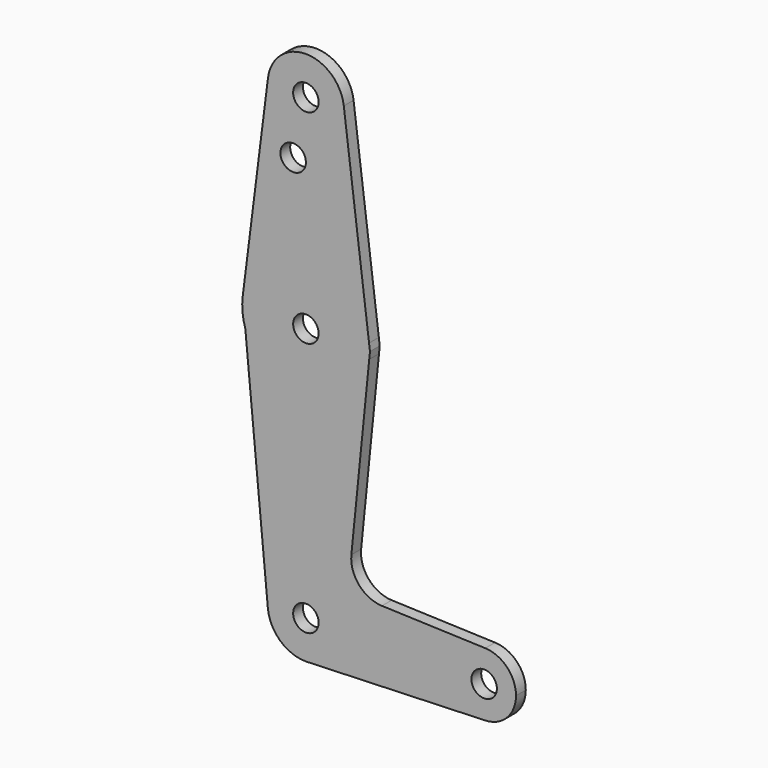
from build123d import *

# Parameters (mm, degrees)
F0_R     = 3.175
F1_DEPTH = 3.048
F2_DEPTH = 3.048


with BuildPart() as f1:
    # F0 (on Front) → F1 (new body)
    with BuildSketch(Plane.XZ):
        with BuildLine():
            ThreePointArc((15.7954255625, 61.9124999847), (15.8550939102, 62.7052534382), (15.875, 63.5))
            ThreePointArc((15.875, 63.5), (15.8438414982, 64.4941386113), (15.7504883051, 65.4843747508))
            ThreePointArc((15.7504883051, 65.4843747508), (1.256e-07, 79.375), (-15.7504882737, 65.484375))
            Line((-15.7504882737, 65.484375), (-15.1007031189, 58.6026139305))
            ThreePointArc((-15.1007031189, 58.6026139305), (1.6910045066, 47.7153198082), (15.7954255625, 61.9124999847))
        make_face()
        with Locations((0, 63.5)):
            Circle(F0_R, mode=Mode.SUBTRACT)
        with BuildLine():
            ThreePointArc((15.7504883051, 65.4843747508), (15.8438414982, 64.4941386113), (15.875, 63.5))
            ThreePointArc((15.875, 63.5), (15.8550939102, 62.7052534382), (15.7954255625, 61.9124999847))
            Line((15.7954255625, 61.9124999847), (15.9751747256, 63.7009815757))
            Line((15.9751747256, 63.7009815757), (15.7504883051, 65.4843747508))
        make_face()
        with BuildLine():
            ThreePointArc((-15.7504882737, 65.484375), (1.256e-07, 79.375), (15.7504883051, 65.4843747508))
            Line((15.7504883051, 65.4843747508), (9.4502929642, 115.490625))
            ThreePointArc((9.4502929642, 115.490625), (9.5063048942, 114.896483242), (9.525, 114.3))
            ThreePointArc((9.525, 114.3), (-0.596483242, 104.7936951058), (-9.4502929642, 115.490625))
            Line((-9.4502929642, 115.490625), (-15.7504882737, 65.484375))
        make_face()
        with Locations((-3.175, 100.0252)):
            Circle(F0_R, mode=Mode.SUBTRACT)
        with BuildLine():
            Line((11.3408358685, 17.5898921545), (15.7954255625, 61.9124999847))
            ThreePointArc((15.7954255625, 61.9124999847), (1.6910045066, 47.7153198082), (-15.1007031189, 58.6026139305))
            Line((-15.1007031189, 58.6026139305), (-9.4828222655, -0.8953808583))
            ThreePointArc((-9.4828222655, -0.8953808583), (-0.4481868591, 9.5144497234), (9.525, 0))
            ThreePointArc((9.525, 0), (6.9705567315, -6.4912990883), (0.6773435479, -9.500885786))
            Line((0.6773435479, -9.500885786), (44.7324052746, -7.9324746146))
            ThreePointArc((44.7324052746, -7.9324746146), (36.5125, 0), (44.7324052746, 7.9324746146))
            Line((44.7324052746, 7.9324746146), (18.968327868, 8.8497055806))
            ThreePointArc((18.968327868, 8.8497055806), (13.2612039825, 11.5674628959), (11.3408358685, 17.5898921545))
        make_face()
        with BuildLine():
            Line((-15.1007031189, 58.6026139305), (-15.7504882737, 65.484375))
            ThreePointArc((-15.7504882737, 65.484375), (-15.8047037758, 62.0076985695), (-15.1007031189, 58.6026139305))
        make_face()
        with BuildLine():
            ThreePointArc((9.525, 114.3), (9.5063048942, 114.896483242), (9.4502929642, 115.490625))
            ThreePointArc((9.4502929642, 115.490625), (0, 123.825), (-9.4502929642, 115.490625))
            ThreePointArc((-9.4502929642, 115.490625), (-0.596483242, 104.7936951058), (9.525, 114.3))
        make_face()
        with Locations((0, 114.3)):
            Circle(F0_R, mode=Mode.SUBTRACT)
        with BuildLine():
            ThreePointArc((9.525, 0), (-0.4481868591, 9.5144497234), (-9.4828222655, -0.8953808583))
            ThreePointArc((-9.4828222655, -0.8953808583), (-6.4108159514, -7.044647886), (0, -9.525))
            Line((0, -9.525), (0.6773435479, -9.500885786))
            ThreePointArc((0.6773435479, -9.500885786), (6.9705567315, -6.4912990883), (9.525, 0))
        make_face()
        Circle(F0_R, mode=Mode.SUBTRACT)
        with BuildLine():
            Line((0.6773435479, -9.500885786), (0, -9.525))
            ThreePointArc((0, -9.525), (0.3388863295, -9.5189695375), (0.6773435479, -9.500885786))
        make_face()
        with BuildLine():
            ThreePointArc((52.3875, 0), (50.1616327839, 5.5119104847), (44.7324052746, 7.9324746146))
            ThreePointArc((44.7324052746, 7.9324746146), (36.5125, 0), (44.7324052746, -7.9324746146))
            ThreePointArc((44.7324052746, -7.9324746146), (50.1616327839, -5.5119104847), (52.3875, 0))
        make_face()
        with Locations((44.45, 0)):
            Circle(F0_R, mode=Mode.SUBTRACT)
    extrude(amount=F1_DEPTH)


with BuildPart() as f2:
    # F0 (on Front) → F2 (new body)
    with BuildSketch(Plane.XZ):
        with BuildLine():
            ThreePointArc((15.7954255625, 61.9124999847), (15.8550939102, 62.7052534382), (15.875, 63.5))
            ThreePointArc((15.875, 63.5), (15.8438414982, 64.4941386113), (15.7504883051, 65.4843747508))
            ThreePointArc((15.7504883051, 65.4843747508), (1.256e-07, 79.375), (-15.7504882737, 65.484375))
            Line((-15.7504882737, 65.484375), (-15.1007031189, 58.6026139305))
            ThreePointArc((-15.1007031189, 58.6026139305), (1.6910045066, 47.7153198082), (15.7954255625, 61.9124999847))
        make_face()
        with Locations((0, 63.5)):
            Circle(F0_R, mode=Mode.SUBTRACT)
        with BuildLine():
            ThreePointArc((15.7504883051, 65.4843747508), (15.8438414982, 64.4941386113), (15.875, 63.5))
            ThreePointArc((15.875, 63.5), (15.8550939102, 62.7052534382), (15.7954255625, 61.9124999847))
            Line((15.7954255625, 61.9124999847), (15.9751747256, 63.7009815757))
            Line((15.9751747256, 63.7009815757), (15.7504883051, 65.4843747508))
        make_face()
        with BuildLine():
            ThreePointArc((-15.7504882737, 65.484375), (1.256e-07, 79.375), (15.7504883051, 65.4843747508))
            Line((15.7504883051, 65.4843747508), (9.4502929642, 115.490625))
            ThreePointArc((9.4502929642, 115.490625), (9.5063048942, 114.896483242), (9.525, 114.3))
            ThreePointArc((9.525, 114.3), (-0.596483242, 104.7936951058), (-9.4502929642, 115.490625))
            Line((-9.4502929642, 115.490625), (-15.7504882737, 65.484375))
        make_face()
        with Locations((-3.175, 100.0252)):
            Circle(F0_R, mode=Mode.SUBTRACT)
        with BuildLine():
            Line((11.3408358685, 17.5898921545), (15.7954255625, 61.9124999847))
            ThreePointArc((15.7954255625, 61.9124999847), (1.6910045066, 47.7153198082), (-15.1007031189, 58.6026139305))
            Line((-15.1007031189, 58.6026139305), (-9.4828222655, -0.8953808583))
            ThreePointArc((-9.4828222655, -0.8953808583), (-0.4481868591, 9.5144497234), (9.525, 0))
            ThreePointArc((9.525, 0), (6.9705567315, -6.4912990883), (0.6773435479, -9.500885786))
            Line((0.6773435479, -9.500885786), (44.7324052746, -7.9324746146))
            ThreePointArc((44.7324052746, -7.9324746146), (36.5125, 0), (44.7324052746, 7.9324746146))
            Line((44.7324052746, 7.9324746146), (18.968327868, 8.8497055806))
            ThreePointArc((18.968327868, 8.8497055806), (13.2612039825, 11.5674628959), (11.3408358685, 17.5898921545))
        make_face()
        with BuildLine():
            Line((-15.1007031189, 58.6026139305), (-15.7504882737, 65.484375))
            ThreePointArc((-15.7504882737, 65.484375), (-15.8047037758, 62.0076985695), (-15.1007031189, 58.6026139305))
        make_face()
        with BuildLine():
            ThreePointArc((9.525, 114.3), (9.5063048942, 114.896483242), (9.4502929642, 115.490625))
            ThreePointArc((9.4502929642, 115.490625), (0, 123.825), (-9.4502929642, 115.490625))
            ThreePointArc((-9.4502929642, 115.490625), (-0.596483242, 104.7936951058), (9.525, 114.3))
        make_face()
        with Locations((0, 114.3)):
            Circle(F0_R, mode=Mode.SUBTRACT)
        with BuildLine():
            ThreePointArc((9.525, 0), (-0.4481868591, 9.5144497234), (-9.4828222655, -0.8953808583))
            ThreePointArc((-9.4828222655, -0.8953808583), (-6.4108159514, -7.044647886), (0, -9.525))
            Line((0, -9.525), (0.6773435479, -9.500885786))
            ThreePointArc((0.6773435479, -9.500885786), (6.9705567315, -6.4912990883), (9.525, 0))
        make_face()
        Circle(F0_R, mode=Mode.SUBTRACT)
        with BuildLine():
            Line((0.6773435479, -9.500885786), (0, -9.525))
            ThreePointArc((0, -9.525), (0.3388863295, -9.5189695375), (0.6773435479, -9.500885786))
        make_face()
        with BuildLine():
            ThreePointArc((52.3875, 0), (50.1616327839, 5.5119104847), (44.7324052746, 7.9324746146))
            ThreePointArc((44.7324052746, 7.9324746146), (36.5125, 0), (44.7324052746, -7.9324746146))
            ThreePointArc((44.7324052746, -7.9324746146), (50.1616327839, -5.5119104847), (52.3875, 0))
        make_face()
        with Locations((44.45, 0)):
            Circle(F0_R, mode=Mode.SUBTRACT)
    extrude(amount=F2_DEPTH)


solid = Compound([f1.part, f2.part])
